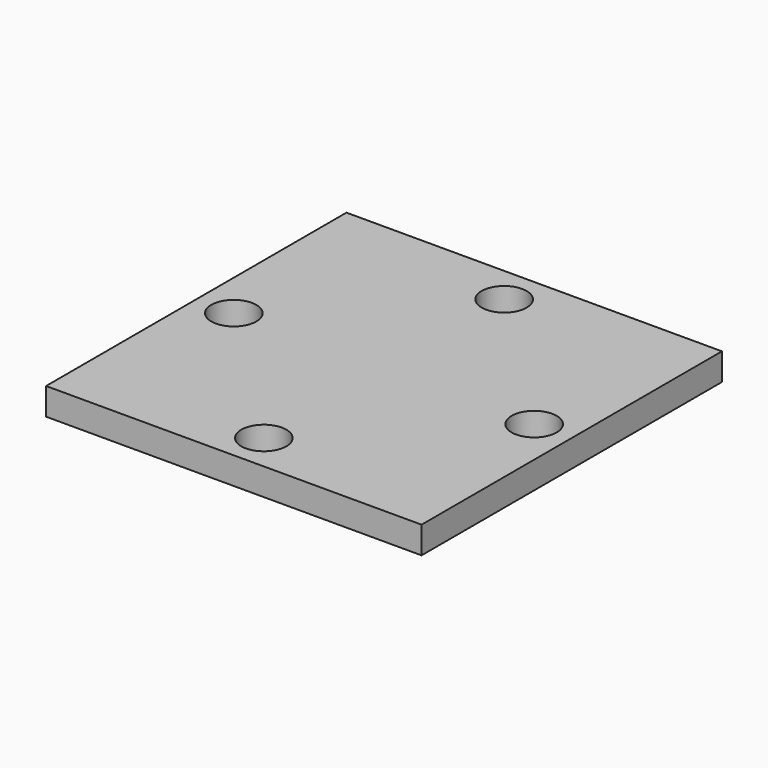
from build123d import *

# Parameters (mm, degrees)
F0_W           = 127
F0_H           = 127
F1_DEPTH       = 9.144
F3_D           = 15.24
F3_CBORE_D     = 15.24
F3_CBORE_DEPTH = 50.8
F4_D           = 15.24
F4_CBORE_D     = 15.24
F4_CBORE_DEPTH = 50.8
F5_D           = 15.24
F5_CBORE_D     = 15.24
F5_CBORE_DEPTH = 50.8
F6_D           = 15.24
F6_CBORE_D     = 15.24
F6_CBORE_DEPTH = 50.8


with BuildPart() as f1:
    # F0 (on Top) → F1 (new body)
    with BuildSketch(Plane.XY):
        with Locations((63.5, -63.5)):
            Rectangle(F0_W, F0_H)
    extrude(amount=F1_DEPTH)

    # F3 (through all)
    with Locations(Plane.XY.offset(9.144)):
        with Locations((63.5, -12.7)):
            CounterBoreHole(F3_D / 2, F3_CBORE_D / 2, F3_CBORE_DEPTH)

    # F4 (through all)
    with Locations(Plane.XY.offset(9.144)):
        with Locations((12.7, -63.5)):
            CounterBoreHole(F4_D / 2, F4_CBORE_D / 2, F4_CBORE_DEPTH)

    # F5 (through all)
    with Locations(Plane.XY.offset(9.144)):
        with Locations((63.5, -114.3)):
            CounterBoreHole(F5_D / 2, F5_CBORE_D / 2, F5_CBORE_DEPTH)

    # F6 (through all)
    with Locations(Plane.XY.offset(9.144)):
        with Locations((114.3, -63.5)):
            CounterBoreHole(F6_D / 2, F6_CBORE_D / 2, F6_CBORE_DEPTH)


solid = f1.part
